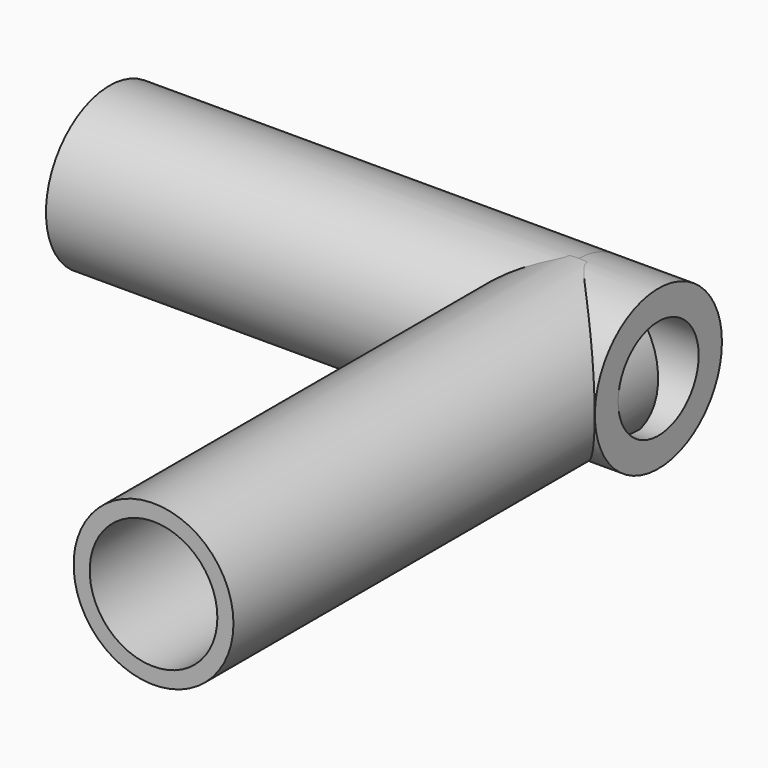
from build123d import *

# Parameters (mm, degrees)
F0_R     = 15.054767
F0_R_2   = 12.024096
F1_DEPTH = 100
F2_R     = 14.954944
F2_R_2   = 9.478125
F3_DEPTH = 15.1
F4_DEPTH = 88.3


with BuildPart() as f1:
    # F0 (on Front) → F1 (new body)
    with BuildSketch(Plane.XZ):
        Circle(F0_R)
        Circle(F0_R_2, mode=Mode.SUBTRACT)
    extrude(amount=F1_DEPTH)

    # F2 (on Right) → F3 (join)
    with BuildSketch(Plane.YZ):
        Circle(F2_R)
        Circle(F2_R_2, mode=Mode.SUBTRACT)
    extrude(amount=F3_DEPTH)

    # F2 (on Right) → F4 (join)
    with BuildSketch(Plane.YZ):
        Circle(F2_R)
        Circle(F2_R_2, mode=Mode.SUBTRACT)
    extrude(amount=-F4_DEPTH)


solid = f1.part
